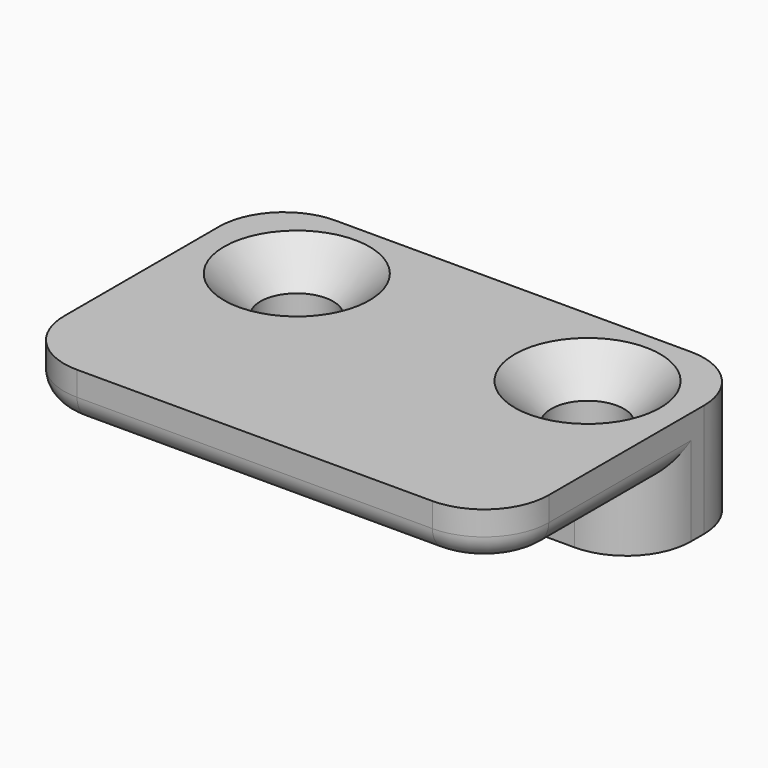
from build123d import *

# Parameters (mm, degrees)
F1_DEPTH       = 15
F3_D           = 4.5
F3_CSINK_D     = 9
F3_CSINK_ANGLE = 90
F4_R           = 4
F5_R           = 1.5


with BuildPart() as f1:
    # F0 (on Right) → F1 (new body, symmetric)
    with BuildSketch(Plane.YZ):
        Polygon((0, 4), (0, 0), (9, 0), (9, 7), (-11, 7), (-11, 4), align=None)
    extrude(amount=F1_DEPTH, both=True)

    # F3 (through all)
    with Locations(Plane.XY.offset(7)):
        with Locations((-9, 3.5), (9, 3.5)):
            CounterSinkHole(F3_D / 2, F3_CSINK_D / 2, counter_sink_angle=F3_CSINK_ANGLE)

    # F4
    f4_edges = [f1.edges().sort_by_distance(p)[0] for p in [
        (15, -11, 5.5),
        (-15, -11, 5.5),
        (15, 0, 2),
        (-15, 0, 2),
        (-15, 9, 3.5),
        (15, 9, 3.5),
    ]]
    fillet(f4_edges, radius=F4_R)

    # F5
    f5_edges = [f1.edges().sort_by_distance(p)[0] for p in [
        (-15, -3.5, 4),
    ]]
    fillet(f5_edges, radius=F5_R)


solid = f1.part
